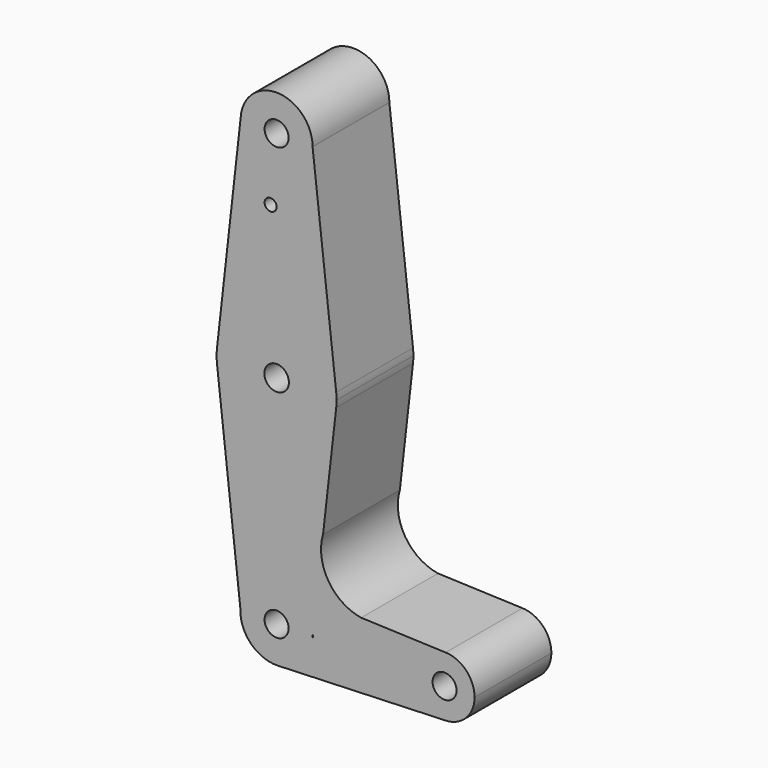
from build123d import *

# Parameters (mm, degrees)
F0_R     = 1.5875
F0_R_2   = 3.254514
F0_R_3   = 3.175
F1_DEPTH = 25.4


with BuildPart() as f1:
    # F0 (on Front) → F1 (new body)
    with BuildSketch(Plane.XZ):
        with BuildLine():
            ThreePointArc((9.524938, 56.923091), (-0.27613, 47.436536), (-9.510924, 57.475173))
            Line((-9.510924, 57.475173), (-15.775539, 1.774256))
            ThreePointArc((-15.775539, 1.774256), (-0.006833, 15.874999), (15.774006, 1.787837))
            Line((15.774006, 1.787837), (9.524938, 56.923091))
        make_face()
        with Locations((-1.5875, 39.808989)):
            Circle(F0_R, mode=Mode.SUBTRACT)
        with BuildLine():
            ThreePointArc((15.774006, 1.787837), (-0.006833, 15.874999), (-15.775539, 1.774256))
            ThreePointArc((-15.775539, 1.774256), (-15.875, 0), (-15.775539, -1.774256))
            ThreePointArc((-15.775539, -1.774256), (-0.006834, -15.874999), (15.774006, -1.787837))
            ThreePointArc((15.774006, -1.787837), (15.849731, -0.895344), (15.875, 0))
            ThreePointArc((15.875, 0), (15.849731, 0.895343), (15.774006, 1.787837))
        make_face()
        Circle(F0_R_2, mode=Mode.SUBTRACT)
        with BuildLine():
            ThreePointArc((15.774006, -1.787837), (-0.006834, -15.874999), (-15.775539, -1.774256))
            Line((-15.775539, -1.774256), (-9.574969, -56.905723))
            ThreePointArc((-9.574969, -56.905723), (-6.621351, -50.412213), (0, -47.757548))
            ThreePointArc((0, -47.757548), (0.353832, -47.764081), (0.707181, -47.783671))
            ThreePointArc((0.707181, -47.783671), (6.775215, -50.562558), (9.558309, -56.628662))
            ThreePointArc((9.558309, -56.628662), (9.578269, -56.98532), (9.584925, -57.342473))
            ThreePointArc((9.584925, -57.342473), (6.902424, -63.992835), (0.356407, -66.920769))
            Line((0.356407, -66.920769), (44.452102, -65.279972))
            ThreePointArc((44.452102, -65.279972), (36.513833, -57.196991), (44.743016, -49.410383))
            Line((44.743016, -49.410383), (22.371508, -48.583965))
            ThreePointArc((22.371508, -48.583965), (13.670923, -42.795517), (12.300367, -32.435599))
            Line((12.300367, -32.435599), (15.774006, -1.787837))
        make_face()
        with BuildLine():
            ThreePointArc((44.743016, -49.410383), (36.513833, -57.196991), (44.452102, -65.279972))
            ThreePointArc((44.452102, -65.279972), (50.063403, -62.954389), (52.3875, -57.342473))
            ThreePointArc((52.3875, -57.342473), (50.165318, -51.834384), (44.743016, -49.410383))
        make_face()
        with Locations((44.45, -57.342473)):
            Circle(F0_R_3, mode=Mode.SUBTRACT)
        with BuildLine():
            ThreePointArc((0, -47.757548), (-6.621351, -50.412213), (-9.574969, -56.905723))
            ThreePointArc((-9.574969, -56.905723), (-6.805935, -64.091549), (0.356407, -66.920769))
            ThreePointArc((0.356407, -66.920769), (6.902424, -63.992835), (9.584925, -57.342473))
            Line((9.584925, -57.342473), (9.477405, -57.342473))
            Line((9.477405, -57.342473), (9.558309, -56.628662))
            ThreePointArc((9.558309, -56.628662), (6.775215, -50.562558), (0.707181, -47.783671))
            Line((0.707181, -47.783671), (0, -47.757548))
        make_face()
        with Locations((0, -57.342473)):
            Circle(F0_R_3, mode=Mode.SUBTRACT)
        with BuildLine():
            ThreePointArc((9.524938, 56.923091), (9.524984, 56.940312), (9.525, 56.957532))
            ThreePointArc((9.525, 56.957532), (0.258916, 66.479013), (-9.510924, 57.475173))
            ThreePointArc((-9.510924, 57.475173), (-0.27613, 47.436536), (9.524938, 56.923091))
        make_face()
        with Locations((0, 56.957532)):
            Circle(F0_R_3, mode=Mode.SUBTRACT)
    extrude(amount=F1_DEPTH)


solid = f1.part
